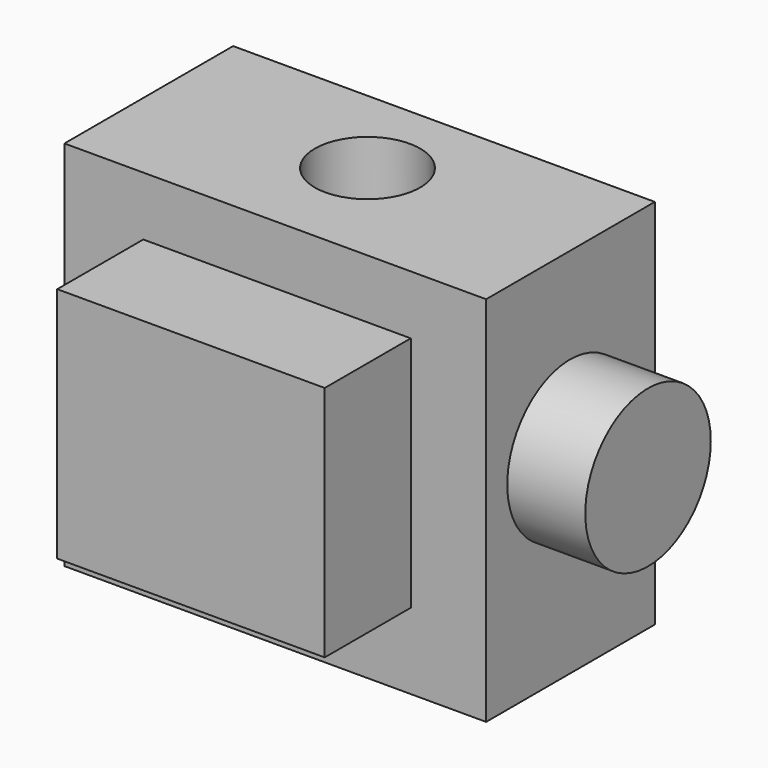
from build123d import *

# Parameters (mm, degrees)
F0_W     = 50.8
F0_H     = 44.824883
F1_DEPTH = 25.4
F3_D     = 12.7
F4_W     = 32.221506
F4_H     = 28.573785
F5_DEPTH = 12.954
F6_R     = 9.448071
F7_DEPTH = 9.398


with BuildPart() as f1:
    # F0 (on Front) → F1 (new body)
    with BuildSketch(Plane.XZ):
        with Locations((-25.4, 22.412441)):
            Rectangle(F0_W, F0_H)
    extrude(amount=F1_DEPTH)

    # F3 (through all)
    with Locations(Plane.XY.offset(44.824883)):
        with Locations((-25.40575, -11.502657)):
            Hole(F3_D / 2)

    # F4 (on face) → F5 (join)
    with BuildSketch(Plane.XZ.offset(25.4)):
        with Locations((-25.191973, 23.439532)):
            Rectangle(F4_W, F4_H)
    extrude(amount=F5_DEPTH)

    # F6 (on face) → F7 (join)
    with BuildSketch(Plane.YZ):
        with Locations((-12.772681, 23.858404)):
            Circle(F6_R)
    extrude(amount=F7_DEPTH)


solid = f1.part
